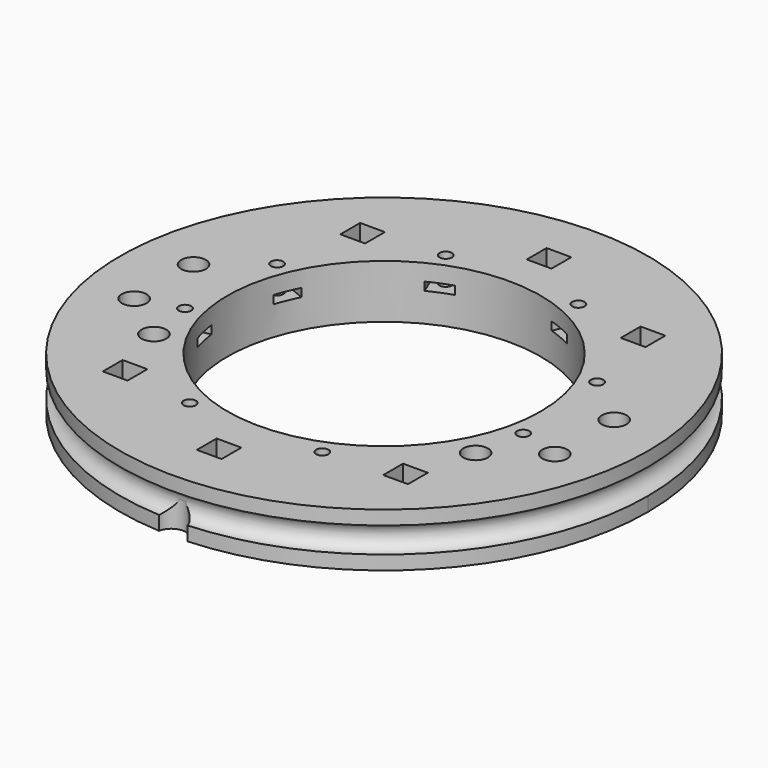
from build123d import *

# Parameters (mm, degrees)
CYLINDER529_R               = 1.5
CYLINDER529_DEPTH           = 100
CYLINDER528_R               = 1.5
CYLINDER528_DEPTH           = 100
CYLINDER533_R               = 3
CYLINDER533_DEPTH           = 7
CYLINDER532_R               = 3
CYLINDER532_DEPTH           = 7
BOX158_W                    = 6
BOX158_H                    = 8
BOX158_DEPTH                = 2
BOX158_PLACEMENT_ANGLE      = 77.5
BOX159_W                    = 6
BOX159_H                    = 8
BOX159_DEPTH                = 2
BOX159_PLACEMENT_ANGLE      = 112.5
BOX160_W                    = 6
BOX160_H                    = 8
BOX160_DEPTH                = 2
BOX160_PLACEMENT_ANGLE      = 157.5
BOX161_W                    = 6
BOX161_H                    = 8
BOX161_DEPTH                = 2
BOX161_PLACEMENT_ANGLE      = 202.5
BOX162_W                    = 6
BOX162_H                    = 8
BOX162_DEPTH                = 2
BOX162_PLACEMENT_ANGLE      = 112.5
BOX163_W                    = 6
BOX163_H                    = 8
BOX163_DEPTH                = 2
BOX163_PLACEMENT_ANGLE      = 77.5
BOX164_W                    = 6
BOX164_H                    = 8
BOX164_DEPTH                = 2
BOX164_PLACEMENT_ANGLE      = 22.5
BOX157_W                    = 6
BOX157_H                    = 8
BOX157_DEPTH                = 2
BOX157_PLACEMENT_ANGLE      = 22.5
CYLINDER469_R               = 1.5
CYLINDER469_DEPTH           = 100
CYLINDER469_PLACEMENT_ANGLE = 100
CYLINDER470_R               = 1.5
CYLINDER470_DEPTH           = 100
CYLINDER470_PLACEMENT_ANGLE = 135
CYLINDER471_R               = 1.5
CYLINDER471_DEPTH           = 100
CYLINDER472_R               = 1.5
CYLINDER472_DEPTH           = 100
CYLINDER472_PLACEMENT_ANGLE = 225
CYLINDER473_R               = 1.5
CYLINDER473_DEPTH           = 100
CYLINDER474_R               = 1.5
CYLINDER474_DEPTH           = 100
CYLINDER474_PLACEMENT_ANGLE = 55
CYLINDER475_R               = 1.5
CYLINDER475_DEPTH           = 100
CYLINDER468_R               = 1.5
CYLINDER468_DEPTH           = 100
CYLINDER468_PLACEMENT_ANGLE = 45
BOX147_W                    = 6
BOX147_H                    = 6
BOX147_DEPTH                = 10
BOX146_W                    = 6
BOX146_H                    = 6
BOX146_DEPTH                = 10
BOX148_W                    = 6
BOX148_H                    = 6
BOX148_DEPTH                = 10
BOX149_W                    = 6
BOX149_H                    = 6
BOX149_DEPTH                = 10
BOX150_W                    = 6
BOX150_H                    = 6
BOX150_DEPTH                = 10
BOX145_W                    = 6
BOX145_H                    = 6
BOX145_DEPTH                = 10
CYLINDER411_R               = 3
CYLINDER411_DEPTH           = 7
CYLINDER409_R               = 3
CYLINDER409_DEPTH           = 7
CYLINDER410_R               = 3
CYLINDER410_DEPTH           = 7
CYLINDER408_R               = 3
CYLINDER408_DEPTH           = 7
CYLINDER371_R               = 1.5
CYLINDER371_DEPTH           = 50
CYLINDER372_R               = 1.5
CYLINDER372_DEPTH           = 50
CYLINDER373_R               = 1.5
CYLINDER373_DEPTH           = 50
CYLINDER374_R               = 1.5
CYLINDER374_DEPTH           = 50
CYLINDER375_R               = 1.5
CYLINDER375_DEPTH           = 50
CYLINDER376_R               = 1.5
CYLINDER376_DEPTH           = 100
CYLINDER377_R               = 1.5
CYLINDER377_DEPTH           = 50
CYLINDER378_R               = 1.5
CYLINDER378_DEPTH           = 50
CYLINDER379_R               = 1.5
CYLINDER379_DEPTH           = 100
CYLINDER370_R               = 1.5
CYLINDER370_DEPTH           = 50
CYLINDER288_R               = 3.5
CYLINDER288_DEPTH           = 20
TORUS_R                     = 3.1
TUBE019_R                   = 64
TUBE019_R_2                 = 38
TUBE019_DEPTH               = 13


with BuildPart() as obj1:
    # Cylinder529 → Cylinder529 (new body)
    with BuildSketch(Plane(origin=(39, -21, 0), x_dir=(1, 0, 0), z_dir=(0, 0, 1))):
        Circle(CYLINDER529_R)
    extrude(amount=CYLINDER529_DEPTH)


with BuildPart() as compound:
    # Cylinder528 → Cylinder528 (new body)
    with BuildSketch(Plane(origin=(-39, -21, 0), x_dir=(1, 0, 0), z_dir=(0, 0, 1))):
        Circle(CYLINDER528_R)
    extrude(amount=CYLINDER528_DEPTH)

    # Compound: union obj1
    add(obj1.part)


with BuildPart() as obj2:
    # Cylinder533 → Cylinder533 (new body)
    with BuildSketch(Plane(origin=(39, -21, 50), x_dir=(1, 0, 0), z_dir=(0, 0, 1))):
        Circle(CYLINDER533_R)
    extrude(amount=CYLINDER533_DEPTH)


with BuildPart() as compound338:
    # Cylinder532 → Cylinder532 (new body)
    with BuildSketch(Plane(origin=(-39, -21, 50), x_dir=(1, 0, 0), z_dir=(0, 0, 1))):
        Circle(CYLINDER532_R)
    extrude(amount=CYLINDER532_DEPTH)

    # Compound338: union obj2
    add(obj2.part)


with BuildPart() as compound338_1:
    # Compound338 placement: moved
    add(compound338.part.moved(Location((0, 0, -25))))


with BuildPart() as krychle158:
    # Box158 → Box158 (new body)
    with BuildSketch(Plane.XY):
        with Locations((3, 4)):
            Rectangle(BOX158_W, BOX158_H)
    extrude(amount=BOX158_DEPTH)


with BuildPart() as krychle158_1:
    # Box158 placement: moved
    add(krychle158.part.moved(Location((43.284001, -12.668671, 25))).rotate(Axis((43.284001, -12.668671, 25), (0, 0, 1)), BOX158_PLACEMENT_ANGLE))


with BuildPart() as krychle159:
    # Box159 → Box159 (new body)
    with BuildSketch(Plane.XY):
        with Locations((3, 4)):
            Rectangle(BOX159_W, BOX159_H)
    extrude(amount=BOX159_DEPTH)


with BuildPart() as krychle159_1:
    # Box159 placement: moved
    add(krychle159.part.moved(Location((42.722629, 14.449116, 25))).rotate(Axis((42.722629, 14.449116, 25), (0, 0, 1)), BOX159_PLACEMENT_ANGLE))


with BuildPart() as krychle160:
    # Box160 → Box160 (new body)
    with BuildSketch(Plane.XY):
        with Locations((3, 4)):
            Rectangle(BOX160_W, BOX160_H)
    extrude(amount=BOX160_DEPTH)


with BuildPart() as krychle160_1:
    # Box160 placement: moved
    add(krychle160.part.moved(Location((19.992393, 40.426529, 25))).rotate(Axis((19.992393, 40.426529, 25), (0, 0, 1)), BOX160_PLACEMENT_ANGLE))


with BuildPart() as krychle161:
    # Box161 → Box161 (new body)
    with BuildSketch(Plane.XY):
        with Locations((3, 4)):
            Rectangle(BOX161_W, BOX161_H)
    extrude(amount=BOX161_DEPTH)


with BuildPart() as krychle161_1:
    # Box161 placement: moved
    add(krychle161.part.moved(Location((-14.449116, 42.722629, 25))).rotate(Axis((-14.449116, 42.722629, 25), (0, 0, 1)), BOX161_PLACEMENT_ANGLE))


with BuildPart() as krychle162:
    # Box162 → Box162 (new body)
    with BuildSketch(Plane.XY):
        with Locations((3, 4)):
            Rectangle(BOX162_W, BOX162_H)
    extrude(amount=BOX162_DEPTH)


with BuildPart() as krychle162_1:
    # Box162 placement: moved
    add(krychle162.part.moved(Location((-40.426529, 19.992393, 25))).rotate(Axis((-40.426529, 19.992393, 25), (0, 0, -1)), BOX162_PLACEMENT_ANGLE))


with BuildPart() as krychle163:
    # Box163 → Box163 (new body)
    with BuildSketch(Plane.XY):
        with Locations((3, 4)):
            Rectangle(BOX163_W, BOX163_H)
    extrude(amount=BOX163_DEPTH)


with BuildPart() as krychle163_1:
    # Box163 placement: moved
    add(krychle163.part.moved(Location((-44.582639, -6.810895, 25))).rotate(Axis((-44.582639, -6.810895, 25), (0, 0, -1)), BOX163_PLACEMENT_ANGLE))


with BuildPart() as krychle164:
    # Box164 → Box164 (new body)
    with BuildSketch(Plane.XY):
        with Locations((3, 4)):
            Rectangle(BOX164_W, BOX164_H)
    extrude(amount=BOX164_DEPTH)


with BuildPart() as krychle164_1:
    # Box164 placement: moved
    add(krychle164.part.moved(Location((-19.992393, -40.426529, 25))).rotate(Axis((-19.992393, -40.426529, 25), (0, 0, -1)), BOX164_PLACEMENT_ANGLE))


with BuildPart() as compound322:
    # Box157 → Box157 (new body)
    with BuildSketch(Plane.XY):
        with Locations((3, 4)):
            Rectangle(BOX157_W, BOX157_H)
    extrude(amount=BOX157_DEPTH)


with BuildPart() as compound322_1:
    # Box157 placement: moved
    add(compound322.part.moved(Location((14.449116, -42.722629, 25))).rotate(Axis((14.449116, -42.722629, 25), (0, 0, 1)), BOX157_PLACEMENT_ANGLE))

    # Compound322: union Krychle158, Krychle159, Krychle160, Krychle161, Krychle162, Krychle163, Krychle164
    add(krychle158_1.part)
    add(krychle159_1.part)
    add(krychle160_1.part)
    add(krychle161_1.part)
    add(krychle162_1.part)
    add(krychle163_1.part)
    add(krychle164_1.part)


with BuildPart() as obj3:
    # Cylinder469 → Cylinder469 (new body)
    with BuildSketch(Plane.XY):
        Circle(CYLINDER469_R)
    extrude(amount=CYLINDER469_DEPTH)


with BuildPart() as obj3_1:
    # Cylinder469 placement: moved
    add(obj3.part.moved(Location((41.004432, -9.090464, 0))).rotate(Axis((41.004432, -9.090464, 0), (0, 0, 1)), CYLINDER469_PLACEMENT_ANGLE))


with BuildPart() as obj4:
    # Cylinder470 → Cylinder470 (new body)
    with BuildSketch(Plane.XY):
        Circle(CYLINDER470_R)
    extrude(amount=CYLINDER470_DEPTH)


with BuildPart() as obj4_1:
    # Cylinder470 placement: moved
    add(obj4.part.moved(Location((38.80294, 16.072704, 0))).rotate(Axis((38.80294, 16.072704, 0), (0, 0, 1)), CYLINDER470_PLACEMENT_ANGLE))


with BuildPart() as obj5:
    # Cylinder471 → Cylinder471 (new body)
    with BuildSketch(Plane(origin=(16.072704, 38.80294, 0), x_dir=(-1, 0, 0), z_dir=(0, 0, 1))):
        Circle(CYLINDER471_R)
    extrude(amount=CYLINDER471_DEPTH)


with BuildPart() as obj6:
    # Cylinder472 → Cylinder472 (new body)
    with BuildSketch(Plane.XY):
        Circle(CYLINDER472_R)
    extrude(amount=CYLINDER472_DEPTH)


with BuildPart() as obj6_1:
    # Cylinder472 placement: moved
    add(obj6.part.moved(Location((-16.072704, 38.80294, 0))).rotate(Axis((-16.072704, 38.80294, 0), (0, 0, 1)), CYLINDER472_PLACEMENT_ANGLE))


with BuildPart() as obj7:
    # Cylinder473 → Cylinder473 (new body)
    with BuildSketch(Plane(origin=(-38.80294, 16.072704, 0), x_dir=(0, -1, 0), z_dir=(0, 0, 1))):
        Circle(CYLINDER473_R)
    extrude(amount=CYLINDER473_DEPTH)


with BuildPart() as obj8:
    # Cylinder474 → Cylinder474 (new body)
    with BuildSketch(Plane.XY):
        Circle(CYLINDER474_R)
    extrude(amount=CYLINDER474_DEPTH)


with BuildPart() as obj8_1:
    # Cylinder474 placement: moved
    add(obj8.part.moved(Location((-41.004432, -9.090464, 0))).rotate(Axis((-41.004432, -9.090464, 0), (0, 0, -1)), CYLINDER474_PLACEMENT_ANGLE))


with BuildPart() as obj9:
    # Cylinder475 → Cylinder475 (new body)
    with BuildSketch(Plane(origin=(-16.072704, -38.80294, 0), x_dir=(1, 0, 0), z_dir=(0, 0, 1))):
        Circle(CYLINDER475_R)
    extrude(amount=CYLINDER475_DEPTH)


with BuildPart() as compound328:
    # Cylinder468 → Cylinder468 (new body)
    with BuildSketch(Plane.XY):
        Circle(CYLINDER468_R)
    extrude(amount=CYLINDER468_DEPTH)


with BuildPart() as compound328_1:
    # Cylinder468 placement: moved
    add(compound328.part.moved(Location((16.072704, -38.80294, 0))).rotate(Axis((16.072704, -38.80294, 0), (0, 0, 1)), CYLINDER468_PLACEMENT_ANGLE))

    # Compound328: union obj3, obj4, obj5, obj6, obj7, obj8, obj9
    add(obj3_1.part)
    add(obj4_1.part)
    add(obj5.part)
    add(obj6_1.part)
    add(obj7.part)
    add(obj8_1.part)
    add(obj9.part)


with BuildPart() as compound328_2:
    # Compound328 placement: moved
    add(compound328_1.part.moved(Location((0, 0, 20))))


with BuildPart() as krychle147:
    # Box147 → Box147 (new body)
    with BuildSketch(Plane(origin=(-37, -39, 40), x_dir=(1, 0, 0), z_dir=(0, 0, 1))):
        with Locations((3, 3)):
            Rectangle(BOX147_W, BOX147_H)
    extrude(amount=BOX147_DEPTH)


with BuildPart() as krychle146:
    # Box146 → Box146 (new body)
    with BuildSketch(Plane(origin=(-3, -53, 40), x_dir=(1, 0, 0), z_dir=(0, 0, 1))):
        with Locations((3, 3)):
            Rectangle(BOX146_W, BOX146_H)
    extrude(amount=BOX146_DEPTH)


with BuildPart() as krychle148:
    # Box148 → Box148 (new body)
    with BuildSketch(Plane(origin=(31, 33, 40), x_dir=(1, 0, 0), z_dir=(0, 0, 1))):
        with Locations((3, 3)):
            Rectangle(BOX148_W, BOX148_H)
    extrude(amount=BOX148_DEPTH)


with BuildPart() as krychle149:
    # Box149 → Box149 (new body)
    with BuildSketch(Plane(origin=(-37, 33, 40), x_dir=(1, 0, 0), z_dir=(0, 0, 1))):
        with Locations((3, 3)):
            Rectangle(BOX149_W, BOX149_H)
    extrude(amount=BOX149_DEPTH)


with BuildPart() as krychle150:
    # Box150 → Box150 (new body)
    with BuildSketch(Plane(origin=(31, -39, 40), x_dir=(1, 0, 0), z_dir=(0, 0, 1))):
        with Locations((3, 3)):
            Rectangle(BOX150_W, BOX150_H)
    extrude(amount=BOX150_DEPTH)


with BuildPart() as compound315:
    # Box145 → Box145 (new body)
    with BuildSketch(Plane(origin=(-3, 47, 40), x_dir=(1, 0, 0), z_dir=(0, 0, 1))):
        with Locations((3, 3)):
            Rectangle(BOX145_W, BOX145_H)
    extrude(amount=BOX145_DEPTH)

    # Compound315: union Krychle147, Krychle146, Krychle148, Krychle149, Krychle150
    add(krychle147.part)
    add(krychle146.part)
    add(krychle148.part)
    add(krychle149.part)
    add(krychle150.part)


with BuildPart() as compound315_1:
    # Compound315 placement: moved
    add(compound315.part.moved(Location((0, 0, -18))))


with BuildPart() as obj10:
    # Cylinder411 → Cylinder411 (new body)
    with BuildSketch(Plane(origin=(51, -12, 50), x_dir=(1, 0, 0), z_dir=(0, 0, 1))):
        Circle(CYLINDER411_R)
    extrude(amount=CYLINDER411_DEPTH)


with BuildPart() as obj11:
    # Cylinder409 → Cylinder409 (new body)
    with BuildSketch(Plane(origin=(51, 6, 50), x_dir=(1, 0, 0), z_dir=(0, 0, 1))):
        Circle(CYLINDER409_R)
    extrude(amount=CYLINDER409_DEPTH)


with BuildPart() as obj12:
    # Cylinder410 → Cylinder410 (new body)
    with BuildSketch(Plane(origin=(-51, 6, 50), x_dir=(1, 0, 0), z_dir=(0, 0, 1))):
        Circle(CYLINDER410_R)
    extrude(amount=CYLINDER410_DEPTH)


with BuildPart() as compound313:
    # Cylinder408 → Cylinder408 (new body)
    with BuildSketch(Plane(origin=(-51, -12, 50), x_dir=(1, 0, 0), z_dir=(0, 0, 1))):
        Circle(CYLINDER408_R)
    extrude(amount=CYLINDER408_DEPTH)

    # Compound313: union obj10, obj11, obj12
    add(obj10.part)
    add(obj11.part)
    add(obj12.part)


with BuildPart() as compound313_1:
    # Compound313 placement: moved
    add(compound313.part.moved(Location((0, 0, -25))))


with BuildPart() as obj13:
    # Cylinder371 → Cylinder371 (new body)
    with BuildSketch(Plane(origin=(34, 36, 0), x_dir=(1, 0, 0), z_dir=(0, 0, 1))):
        Circle(CYLINDER371_R)
    extrude(amount=CYLINDER371_DEPTH)


with BuildPart() as obj14:
    # Cylinder372 → Cylinder372 (new body)
    with BuildSketch(Plane(origin=(-34, -36, 0), x_dir=(1, 0, 0), z_dir=(0, 0, 1))):
        Circle(CYLINDER372_R)
    extrude(amount=CYLINDER372_DEPTH)


with BuildPart() as obj15:
    # Cylinder373 → Cylinder373 (new body)
    with BuildSketch(Plane(origin=(34, -36, 0), x_dir=(1, 0, 0), z_dir=(0, 0, 1))):
        Circle(CYLINDER373_R)
    extrude(amount=CYLINDER373_DEPTH)


with BuildPart() as obj16:
    # Cylinder374 → Cylinder374 (new body)
    with BuildSketch(Plane(origin=(0, 50, 0), x_dir=(1, 0, 0), z_dir=(0, 0, 1))):
        Circle(CYLINDER374_R)
    extrude(amount=CYLINDER374_DEPTH)


with BuildPart() as obj17:
    # Cylinder375 → Cylinder375 (new body)
    with BuildSketch(Plane(origin=(0, -50, 0), x_dir=(1, 0, 0), z_dir=(0, 0, 1))):
        Circle(CYLINDER375_R)
    extrude(amount=CYLINDER375_DEPTH)


with BuildPart() as obj18:
    # Cylinder376 → Cylinder376 (new body)
    with BuildSketch(Plane(origin=(-51, -12, 0), x_dir=(1, 0, 0), z_dir=(0, 0, 1))):
        Circle(CYLINDER376_R)
    extrude(amount=CYLINDER376_DEPTH)


with BuildPart() as obj19:
    # Cylinder377 → Cylinder377 (new body)
    with BuildSketch(Plane(origin=(51, 6, 0), x_dir=(1, 0, 0), z_dir=(0, 0, 1))):
        Circle(CYLINDER377_R)
    extrude(amount=CYLINDER377_DEPTH)


with BuildPart() as obj20:
    # Cylinder378 → Cylinder378 (new body)
    with BuildSketch(Plane(origin=(-51, 6, 0), x_dir=(1, 0, 0), z_dir=(0, 0, 1))):
        Circle(CYLINDER378_R)
    extrude(amount=CYLINDER378_DEPTH)


with BuildPart() as obj21:
    # Cylinder379 → Cylinder379 (new body)
    with BuildSketch(Plane(origin=(51, -12, 0), x_dir=(1, 0, 0), z_dir=(0, 0, 1))):
        Circle(CYLINDER379_R)
    extrude(amount=CYLINDER379_DEPTH)


with BuildPart() as compound308:
    # Cylinder370 → Cylinder370 (new body)
    with BuildSketch(Plane(origin=(-34, 36, 0), x_dir=(1, 0, 0), z_dir=(0, 0, 1))):
        Circle(CYLINDER370_R)
    extrude(amount=CYLINDER370_DEPTH)

    # Compound308: union obj13, obj14, obj15, obj16, obj17, obj18, obj19, obj20, obj21
    add(obj13.part)
    add(obj14.part)
    add(obj15.part)
    add(obj16.part)
    add(obj17.part)
    add(obj18.part)
    add(obj19.part)
    add(obj20.part)
    add(obj21.part)


with BuildPart() as obj22:
    # Cylinder288 → Cylinder288 (new body)
    with BuildSketch(Plane(origin=(0, -64.5, 4.5), x_dir=(1, 0, 0), z_dir=(0, 0, 1))):
        Circle(CYLINDER288_R)
    extrude(amount=CYLINDER288_DEPTH)


with BuildPart() as obj23:
    # Torus → Torus (revolve)
    with BuildSketch(Plane(origin=(0, 0, 24.5), x_dir=(1, 0, 0), z_dir=(0, -1, 0))):
        with Locations((64.2, 0)):
            Circle(TORUS_R)
    revolve(axis=Axis((0, 0, 24.5), (0, 0, 1)))


with BuildPart() as cut177:
    # Tube019 → Tube019 (new body)
    with BuildSketch(Plane.XY.offset(18)):
        Circle(TUBE019_R)
        Circle(TUBE019_R_2, mode=Mode.SUBTRACT)
    extrude(amount=TUBE019_DEPTH)

    # Cut129: cut obj23
    add(obj23.part, mode=Mode.SUBTRACT)

    # Cut130: cut obj22
    add(obj22.part, mode=Mode.SUBTRACT)

    # Cut160: cut Compound308
    add(compound308.part, mode=Mode.SUBTRACT)

    # Cut162: cut Compound313
    add(compound313_1.part, mode=Mode.SUBTRACT)

    # Cut164: cut Compound315
    add(compound315_1.part, mode=Mode.SUBTRACT)

    # Cut174: cut Compound328
    add(compound328_2.part, mode=Mode.SUBTRACT)

    # Cut175: cut Compound322
    add(compound322_1.part, mode=Mode.SUBTRACT)

    # Cut176: cut Compound338
    add(compound338_1.part, mode=Mode.SUBTRACT)

    # Cut177: cut Compound
    add(compound.part, mode=Mode.SUBTRACT)


solid = cut177.part
